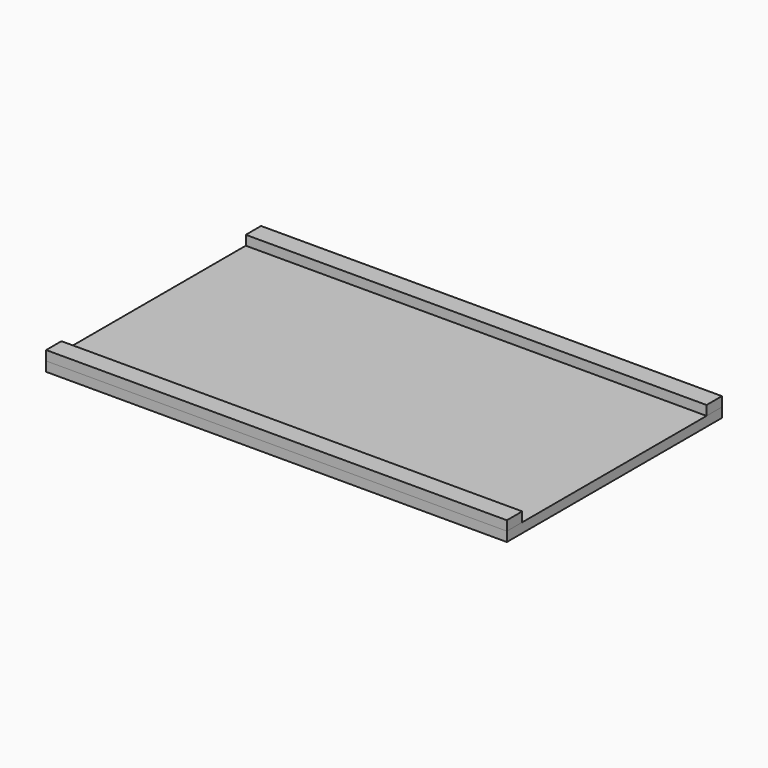
from build123d import *

# Parameters (mm, degrees)
F0_W     = 152.4
F0_H     = 88.9
F1_DEPTH = 3.175
F2_W     = 152.4
F2_H     = 6.35
F4_DEPTH = 3.175
F5_DEPTH = 3.175


with BuildPart() as f1:
    # F0 (on Top) → F1 (new body)
    with BuildSketch(Plane.XY):
        with Locations((76.2, 44.45)):
            Rectangle(F0_W, F0_H)
    extrude(amount=F1_DEPTH)


with BuildPart() as f4:
    # F2 (on face) → F4 (new body)
    with BuildSketch(Plane.XY.offset(3.175)):
        with Locations((76.2, 3.175)):
            Rectangle(F2_W, F2_H)
    extrude(amount=F4_DEPTH)


with BuildPart() as f5:
    # F3 (on face) → F5 (new body)
    with BuildSketch(Plane.XY.offset(3.175)):
        Polygon((0, 82.55), (152.4, 82.55), (152.4, 88.9), (0, 88.870898), align=None)
    extrude(amount=F5_DEPTH)


solid = Compound([f1.part, f4.part, f5.part])
